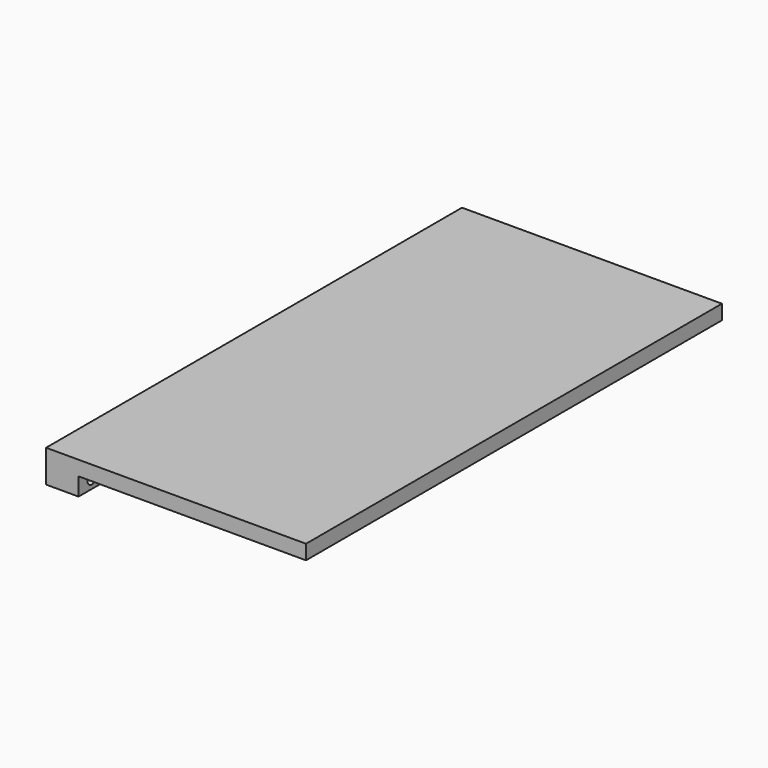
from build123d import *

# Parameters (mm, degrees)
F0_W     = 25.4
F0_H     = 25.4
F0_H_2   = 381
F0_W_2   = 152.4
F1_DEPTH = 25.4
F2_DEPTH = 11.43
F4_R     = 3.96875
F5_DEPTH = 12.7
F3_R     = 3.96875
F6_DEPTH = 12.7


with BuildPart() as f1:
    # F0 (on Top) → F1 (new body)
    with BuildSketch(Plane.XY):
        with Locations((-88.9, 190.5)):
            Rectangle(F0_W, F0_H)
        with Locations((-88.9, -12.7)):
            Rectangle(F0_W, F0_H_2)
        with Locations((0, 190.5)):
            Rectangle(F0_W_2, F0_H)
    extrude(amount=-F1_DEPTH)

    # F0 (on Top) → F2 (join)
    with BuildSketch(Plane.XY):
        with Locations((-88.9, 190.5)):
            Rectangle(F0_W, F0_H)
        with Locations((-88.9, -12.7)):
            Rectangle(F0_W, F0_H_2)
        with Locations((0, 190.5)):
            Rectangle(F0_W_2, F0_H)
        Polygon((101.6, -203.2), (101.6, 177.8), (76.2, 177.8), (-76.2, 177.8), (-76.2, -203.2), align=None)
        with Locations((88.9, 190.5)):
            Rectangle(F0_W, F0_H)
    extrude(amount=-F2_DEPTH)

    # F4 (on face) → F5 (cut)
    with BuildSketch(Plane.YZ.offset(76.2)):
        with Locations((190.5, -18.415)):
            Circle(F4_R)
    extrude(amount=-F5_DEPTH, mode=Mode.SUBTRACT)

    # F3 (on face) → F6 (cut)
    with BuildSketch(Plane.YZ.offset(-76.2)):
        with Locations((-190.5, -18.415)):
            Circle(F3_R)
    extrude(amount=-F6_DEPTH, mode=Mode.SUBTRACT)


solid = f1.part
